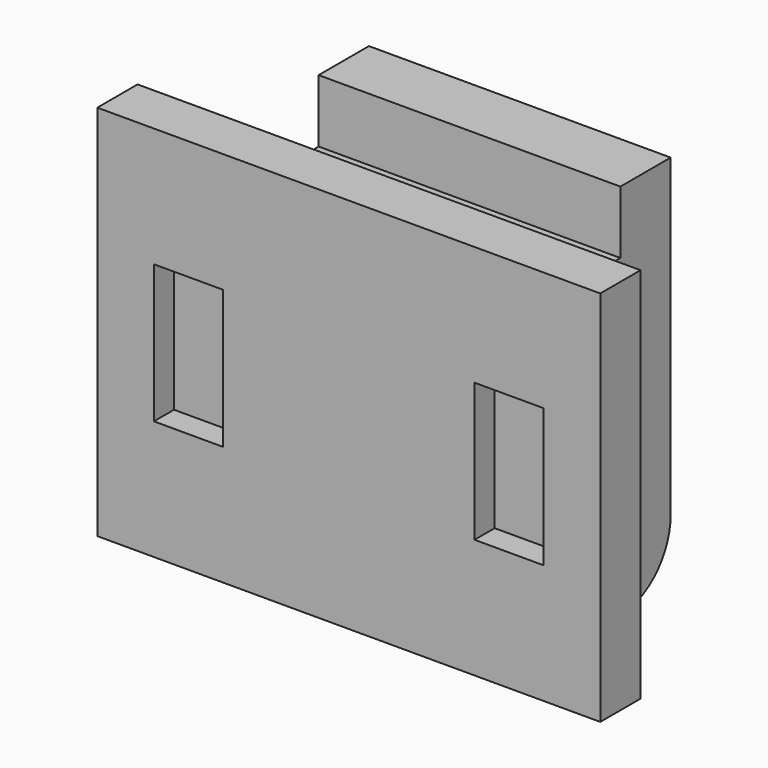
from build123d import *

# Parameters (mm, degrees)
F0_W     = 24
F0_H     = 30
F1_DEPTH = 5
F2_W     = 24
F2_H     = 25
F3_DEPTH = 8
F4_R     = 5
F5_W     = 40
F5_H     = 30
F6_DEPTH = 4
F7_W     = 5.5
F7_H     = 11
F8_DEPTH = 2


with BuildPart() as f1:
    # F0 (on Front) → F1 (new body)
    with BuildSketch(Plane.XZ):
        Rectangle(F0_W, F0_H)
    extrude(amount=F1_DEPTH)

    # F2 (on face) → F3 (join)
    with BuildSketch(Plane.XZ.offset(5)):
        with Locations((0, -2.5)):
            Rectangle(F2_W, F2_H)
    extrude(amount=F3_DEPTH)

    # F4
    f4_edges = [f1.edges().sort_by_distance(p)[0] for p in [
        (0, 0, -15),
    ]]
    fillet(f4_edges, radius=F4_R)

    # F5 (on face) → F6 (join)
    with BuildSketch(Plane.XZ.offset(13)):
        Rectangle(F5_W, F5_H)
    extrude(amount=F6_DEPTH)

    # F7 (on face) → F8 (cut)
    with BuildSketch(Plane.XZ.offset(17)):
        with Locations((-12.75, 0)):
            Rectangle(F7_W, F7_H)
        with Locations((12.75, 0)):
            Rectangle(F7_W, F7_H)
    extrude(amount=-F8_DEPTH, mode=Mode.SUBTRACT)


solid = f1.part
